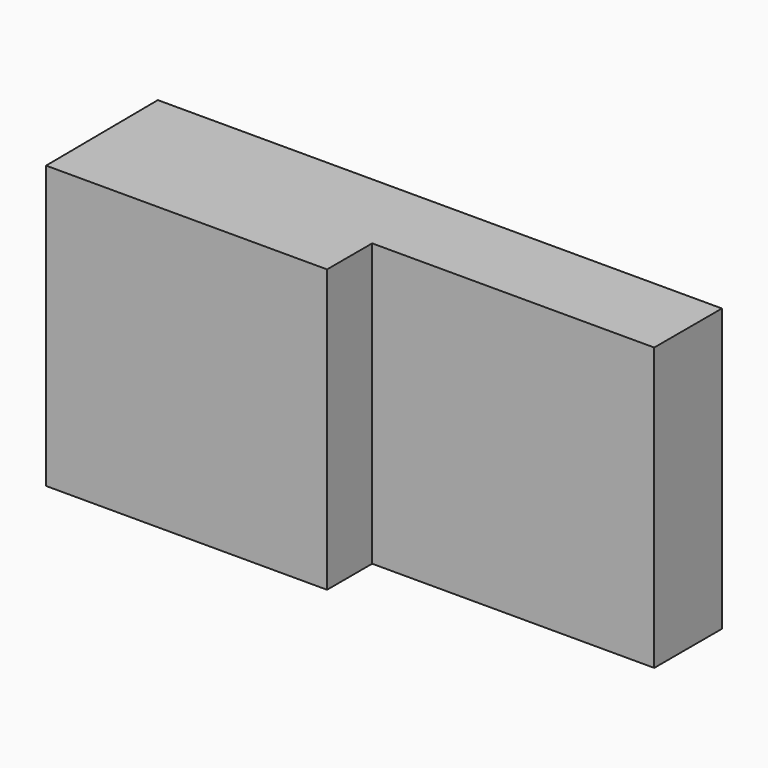
from build123d import *

# Parameters (mm, degrees)
F1_DEPTH = 63.5
F2_DEPTH = 63.5


with BuildPart() as f1:
    # F0 (on Top) → F1 (new body)
    with BuildSketch(Plane.XY):
        Polygon((61.167741, 31.75), (-65.832259, 31.75), (-65.58761, 0), (-2.332259, 0), (-2.332259, 12.7), (15.4492, 12.7), (61.167741, 12.7), align=None)
    extrude(amount=F1_DEPTH)

    # F0 (on Top) → F2 (join)
    with BuildSketch(Plane.XY):
        Polygon((61.167741, 31.75), (-65.832259, 31.75), (-65.58761, 0), (-2.332259, 0), (-2.332259, 12.7), (15.4492, 12.7), (61.167741, 12.7), align=None)
    extrude(amount=F2_DEPTH)


solid = f1.part
